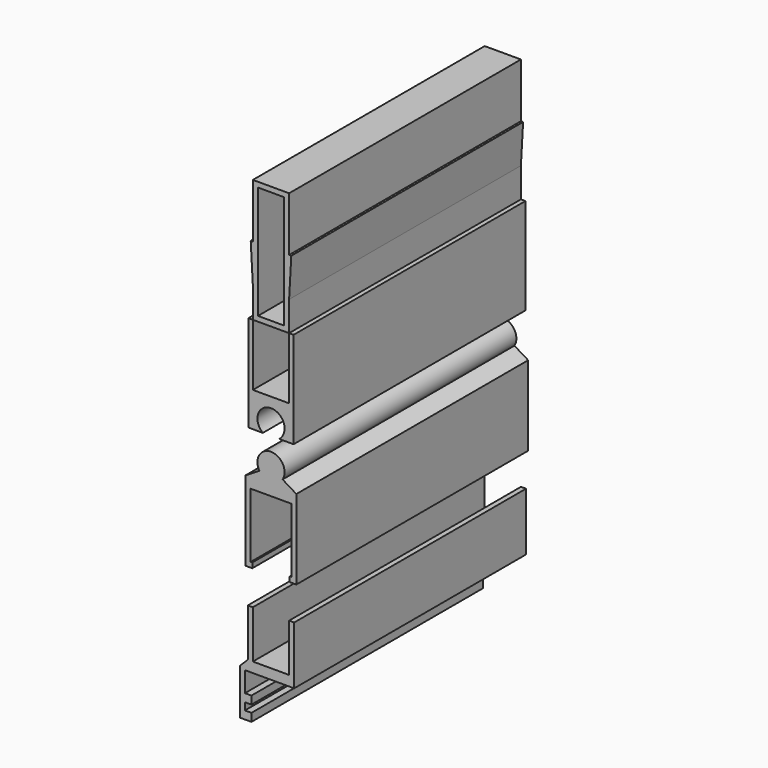
from build123d import *

# Parameters (mm, degrees)
F1_DEPTH = 101.6
F3_DEPTH = 101.6
F5_DEPTH = 101.6
F7_DEPTH = 101.6


with BuildPart() as f1:
    # F0 (on Front) → F1 (new body)
    with BuildSketch(Plane.XZ):
        Polygon((0, 0), (6.35, 0), (6.35, 10.414), (7.112, 24.13), (6.35, 24.13), (6.35, 43.18), (0.04771, 43.18), (-0.04771, 43.18), (-6.35, 43.18), (-6.35, 24.13), (-7.112, 24.13), (-6.35, 10.414), (-6.35, 0), align=None)
        Polygon((-4.572, 41.402), (0, 41.402), (4.572, 41.402), (4.572, 1.778), (0, 1.778), (-4.572, 1.778), align=None, mode=Mode.SUBTRACT)
    extrude(amount=F1_DEPTH)


with BuildPart() as f3:
    # F2 (on Front) → F3 (new body)
    with BuildSketch(Plane.XZ):
        with BuildLine():
            Line((7.9248, 0), (6.35, 0))
            Line((6.35, 0), (6.35, -21.6535))
            Line((6.35, -21.6535), (-6.35, -21.6535))
            Line((-6.35, -21.6535), (-6.35, 0))
            Line((-6.35, 0), (-7.9248, 0))
            Line((-7.9248, 0), (-7.9248, -33.782))
            Line((-7.9248, -33.782), (-2.8575, -33.782))
            ThreePointArc((-2.8575, -33.782), (0, -25.2095), (2.8575, -33.782))
            Line((2.8575, -33.782), (7.9248, -33.782))
            Line((7.9248, -33.782), (7.9248, 0))
        make_face()
    extrude(amount=F3_DEPTH)


with BuildPart() as f5:
    # F4 (on Front) → F5 (new body)
    with BuildSketch(Plane.XZ):
        with BuildLine():
            Line((8.89, -48.827907), (4.070926, -45.90204))
            ThreePointArc((4.070926, -45.90204), (0, -38.667907), (-4.070926, -45.90204))
            Line((-4.070926, -45.90204), (-8.89, -48.827907))
            Line((-8.89, -48.827907), (-8.89, -76.767907))
            Line((-8.89, -76.767907), (-6.5532, -76.767907))
            Line((-6.5532, -76.767907), (-6.5532, -74.989907))
            Line((-6.5532, -74.989907), (-7.112, -74.989907))
            Line((-7.112, -74.989907), (-7.112, -52.383907))
            Line((-7.112, -52.383907), (7.112, -52.383907))
            Line((7.112, -52.383907), (7.112, -74.989907))
            Line((7.112, -74.989907), (6.5532, -74.989907))
            Line((6.5532, -74.989907), (6.5532, -76.767907))
            Line((6.5532, -76.767907), (8.89, -76.767907))
            Line((8.89, -76.767907), (8.89, -48.827907))
        make_face()
    extrude(amount=F5_DEPTH)


with BuildPart() as f7:
    # F6 (on Front) → F7 (new body)
    with BuildSketch(Plane.XZ):
        Polygon((-6.35, -105.498136), (-6.35, -88.734136), (-8.128, -88.734136), (-8.128, -105.498136), (-10.922, -108.292136), (-10.922, -124.294136), (-6.858, -124.294136), (-6.858, -121.500136), (-9.144, -121.500136), (-9.144, -118.960136), (-6.858, -118.960136), (-6.858, -116.166136), (-9.144, -116.166136), (-9.144, -109.054136), (8.128, -109.054136), (8.128, -88.734136), (6.35, -88.734136), (6.35, -105.498136), align=None)
    extrude(amount=F7_DEPTH)


solid = Compound([f1.part, f3.part, f5.part, f7.part])
